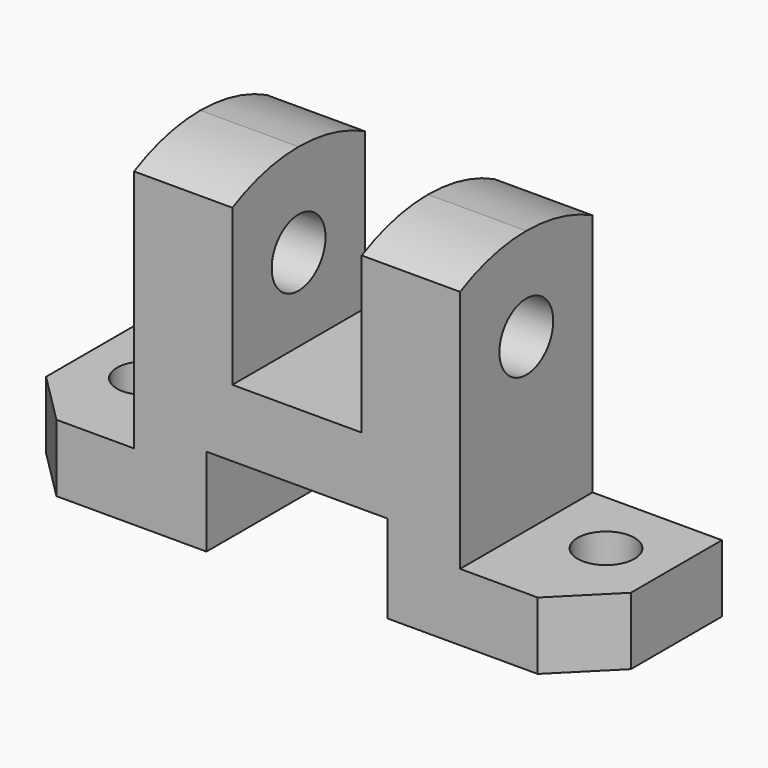
from build123d import *

# Parameters (mm, degrees)
F1_DEPTH  = 16
F3_DEPTH  = 25
F5_DEPTH  = 25
F6_R      = 6.5
F7_DEPTH  = 88.001
F8_DEPTH  = 88.001
F9_R      = 5.5
F10_DEPTH = 25
F11_R     = 5.5
F12_DEPTH = 25


with BuildPart() as f1:
    # F0 (on Front) → F1 (new body, symmetric)
    with BuildSketch(Plane.XZ):
        Polygon((0, 13), (0, 0), (39, 0), (39, 17), (74, 17), (74, 0), (113, 0), (113, 13), (88, 13), (88, 64), (69, 64), (69, 30), (44, 30), (44, 64), (25, 64), (25, 13), align=None)
    extrude(amount=F1_DEPTH, both=True)

    # F2 (on face) → F3 (cut)
    with BuildSketch(Plane.XY.offset(13)):
        Polygon((103, -16), (113, -16), (113, -6), align=None)
    extrude(amount=-F3_DEPTH, mode=Mode.SUBTRACT)

    # F4 (on face) → F5 (cut)
    with BuildSketch(Plane.XY.offset(13)):
        Polygon((10, -16), (0, -6), (0, -16), align=None)
    extrude(amount=-F5_DEPTH, mode=Mode.SUBTRACT)

    # F6 (on face) → F7 (cut, through all)
    with BuildSketch(Plane.YZ.offset(88)):
        with Locations((0, 46)):
            Circle(F6_R)
    extrude(amount=-F7_DEPTH, mode=Mode.SUBTRACT)

    # F6 (on face) → F8 (cut, through all)
    with BuildSketch(Plane.YZ.offset(88)):
        with BuildLine():
            ThreePointArc((-16, 60.1287648325), (-8.230833216, 63.0184271325), (0, 64))
            Line((0, 64), (-16, 64))
            Line((-16, 64), (-16, 60.1287648325))
        make_face()
        with BuildLine():
            ThreePointArc((0, 64), (8.2308332161, 63.0184271325), (16, 60.1287648325))
            Line((16, 60.1287648325), (16, 64))
            Line((16, 64), (0, 64))
        make_face()
    extrude(amount=-F8_DEPTH, mode=Mode.SUBTRACT)

    # F9 (on face) → F10 (cut)
    with BuildSketch(Plane.XY.offset(13)):
        with Locations((101, 3)):
            Circle(F9_R)
    extrude(amount=-F10_DEPTH, mode=Mode.SUBTRACT)

    # F11 (on face) → F12 (cut)
    with BuildSketch(Plane.XY.offset(13)):
        with Locations((12, 3)):
            Circle(F11_R)
    extrude(amount=-F12_DEPTH, mode=Mode.SUBTRACT)


solid = f1.part
